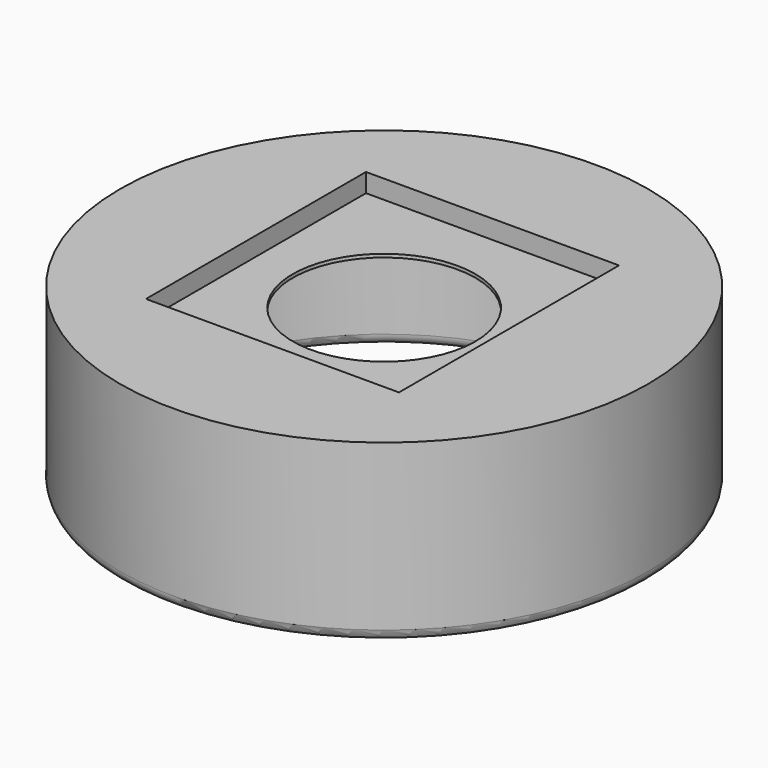
from build123d import *

# Parameters (mm, degrees)
F0_R     = 12
F1_DEPTH = 8
F2_R     = 10.75
F3_DEPTH = 7
F4_W     = 11.5
F4_H     = 12.5
F5_DEPTH = 0.85
F6_R     = 4.148405
F7_DEPTH = 0.15
F8_R     = 0.5


with BuildPart() as f1:
    # F0 (on Top) → F1 (new body)
    with BuildSketch(Plane.XY):
        Circle(F0_R)
    extrude(amount=F1_DEPTH)

    # F2 (on face) → F3 (cut)
    with BuildSketch(Plane(origin=(0, 0, 0), x_dir=(1, 0, 0), z_dir=(0, 0, -1))):
        Circle(F2_R)
    extrude(amount=-F3_DEPTH, mode=Mode.SUBTRACT)

    # F4 (on face) → F5 (cut)
    with BuildSketch(Plane.XY.offset(8)):
        with Locations((-0.252232, 0.222986)):
            Rectangle(F4_W, F4_H)
    extrude(amount=-F5_DEPTH, mode=Mode.SUBTRACT)

    # F6 (on face) → F7 (cut)
    with BuildSketch(Plane.XY.offset(7.15)):
        Circle(F6_R)
    extrude(amount=-F7_DEPTH, mode=Mode.SUBTRACT)

    # F8
    f8_edges = [f1.edges().sort_by_distance(p)[0] for p in [
        (-12, 0, 0),
        (-10.75, 0, 0),
    ]]
    fillet(f8_edges, radius=F8_R)


solid = f1.part
